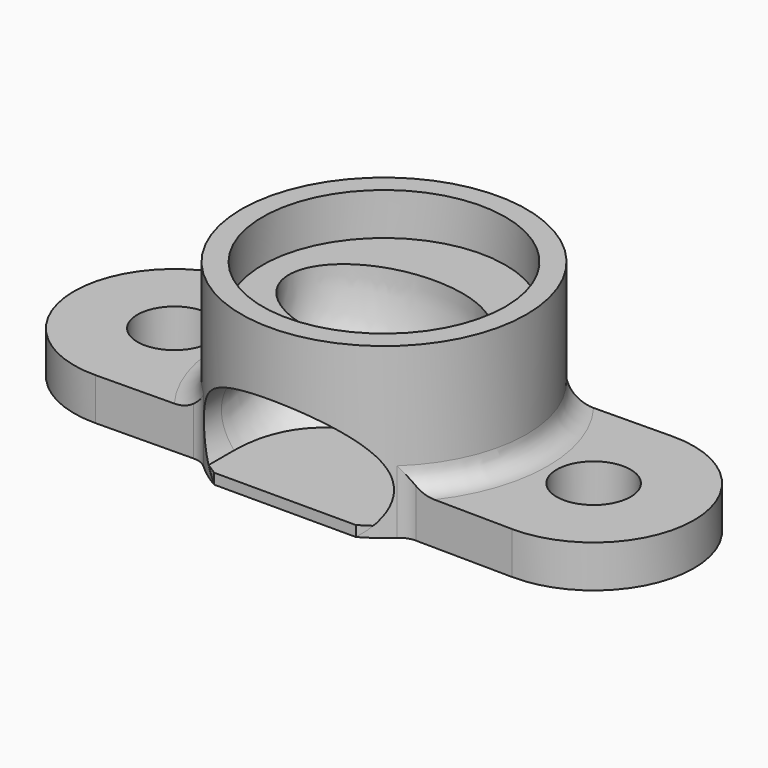
from build123d import *

# Parameters (mm, degrees)
F0_R      = 6.75
F1_DEPTH  = 6
F2_R      = 6.75
F2_R_2    = 5.75
F3_DEPTH  = 2
F4_R      = 1.75
F5_DEPTH  = 2
F6_R      = 1
F11_DEPTH = 0.5


with BuildPart() as f1:
    # F0 (on Top) → F1 (new body)
    with BuildSketch(Plane.XY):
        Circle(F0_R)
    extrude(amount=F1_DEPTH)

    # F2 (on face) → F3 (join)
    with BuildSketch(Plane.XY.offset(6)):
        Circle(F2_R)
        Circle(F2_R_2, mode=Mode.SUBTRACT)
    extrude(amount=F3_DEPTH)

    # F4 (on Top) → F5 (join)
    with BuildSketch(Plane.XY):
        with BuildLine():
            Line((-4.8541374773, 4.6903997006), (-9.8702424499, 4.7496684595))
            ThreePointArc((-9.8702424499, 4.7496684595), (-14.6763630766, 0), (-9.8702424499, -4.7496684595))
            Line((-9.8702424499, -4.7496684595), (-4.8541374773, -4.6903997006))
            add(Edge.make_bspline(
                [(-4.8541374773, -4.6903997006), (-4.8205879638, -4.509792444), (-4.7284465914, -4.0137673539), (-5.8961508342, -2.4401984706), (-6.4041088307, -0.0070733161), (-5.5431666994, 2.981767413), (-5.0631827515, 4.1720160188), (-4.8541374773, 4.6903997006)],
                knots=[0, 0, 0, 0, 0.113319105, 0.3112229285, 0.544821063, 0.801757942, 1, 1, 1, 1], degree=3))
        make_face()
        with Locations((-9.9263630766, 0)):
            Circle(F4_R, mode=Mode.SUBTRACT)
        with BuildLine():
            ThreePointArc((9.8702424499, -4.7496684595), (14.6763630766, 0), (9.8702424499, 4.7496684595))
            Line((9.8702424499, 4.7496684595), (4.8541374773, 4.6903997006))
            add(Edge.make_bspline(
                [(4.8541374773, 4.6903997006), (5.1072687922, 3.9726511881), (5.6348315953, 2.4767579706), (6.5225247634, -0.2237788783), (5.775494904, -2.6895248799), (5.1546598246, -4.037767421), (4.8541374773, -4.6903997006)],
                knots=[0, 0, 0, 0, 0.2451903211, 0.5110126068, 0.7633000388, 1, 1, 1, 1], degree=3))
            Line((4.8541374773, -4.6903997006), (9.8702424499, -4.7496684595))
        make_face()
        with Locations((9.9263630766, 0)):
            Circle(F4_R, mode=Mode.SUBTRACT)
    extrude(amount=F5_DEPTH)

    # F6
    f6_edges = [f1.edges().sort_by_distance(p)[0] for p in [
        (6.258112, -2.529533, 2),
        (6.258112, 2.529533, 2),
        (4.854137, -4.6904, 1),
        (4.854137, 4.6904, 1),
        (-4.854137, 4.6904, 1),
        (-6.75, 0, 2),
        (-4.854137, -4.6904, 1),
    ]]
    fillet(f6_edges, radius=F6_R)

    # F9: sweep along a path in F8
    with BuildLine(Plane.YZ) as f9_path:
        Line((-9.957787348, 2), (-4, 2))
        ThreePointArc((-4, 2), (-1.1715728753, 3.1715728753), (0, 6))
    # F7 (on face) → F9 (sweep, cut)
    with BuildSketch(Plane.XY.offset(6)):
        with BuildLine():
            add(Edge.make_bspline(
                [(4.5, 0), (4.5, 5.1961524227), (-2.25, 2.5980762114), (-9, 0), (-2.25, -2.5980762114), (4.5, -5.1961524227), (4.5, 0)],
                knots=[0, 0, 0, 2.0943951024, 2.0943951024, 4.1887902048, 4.1887902048, 6.2831853072, 6.2831853072, 6.2831853072], degree=2, weights=[1, 0.5, 1, 0.5, 1, 0.5, 1]))
        make_face()
    sweep(path=f9_path.line, mode=Mode.SUBTRACT)

    # F10 (on face) → F11 (join)
    with BuildSketch(Plane(origin=(0, 0, 0), x_dir=(1, 0, 0), z_dir=(0, 0, -1))):
        Polygon((-4, 5.4371407927), (-4, 0), (4, 0), (4, 5.4371407927), (3.3541019662, 5.8576872569), (-3.3541019662, 5.8576872569), align=None)
    extrude(amount=-F11_DEPTH)


solid = f1.part
